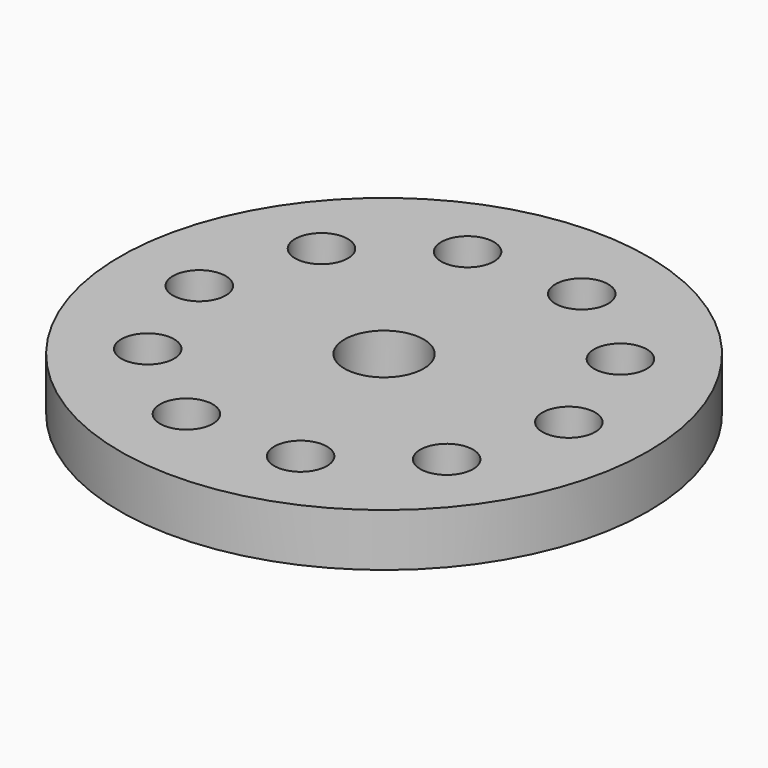
from build123d import *

# Parameters (mm, degrees)
F0_R     = 50
F0_R_2   = 5
F0_R_3   = 7.5
F1_DEPTH = 10


with BuildPart() as f1:
    # F0 (on Top) → F1 (new body)
    with BuildSketch(Plane.XY):
        Circle(F0_R)
        with Locations((-10.815595, -33.286978)):
            Circle(F0_R_2, mode=Mode.SUBTRACT)
        with Locations((-28.315595, -20.572484)):
            Circle(F0_R_2, mode=Mode.SUBTRACT)
        with Locations((10.815595, -33.286978)):
            Circle(F0_R_2, mode=Mode.SUBTRACT)
        with Locations((28.315595, -20.572484)):
            Circle(F0_R_2, mode=Mode.SUBTRACT)
        with Locations((-35, 0)):
            Circle(F0_R_2, mode=Mode.SUBTRACT)
        with Locations((-28.315595, 20.572484)):
            Circle(F0_R_2, mode=Mode.SUBTRACT)
        with Locations((-10.815595, 33.286978)):
            Circle(F0_R_2, mode=Mode.SUBTRACT)
        Circle(F0_R_3, mode=Mode.SUBTRACT)
        with Locations((35, 0)):
            Circle(F0_R_2, mode=Mode.SUBTRACT)
        with Locations((28.315595, 20.572484)):
            Circle(F0_R_2, mode=Mode.SUBTRACT)
        with Locations((10.815595, 33.286978)):
            Circle(F0_R_2, mode=Mode.SUBTRACT)
    extrude(amount=F1_DEPTH)


solid = f1.part
